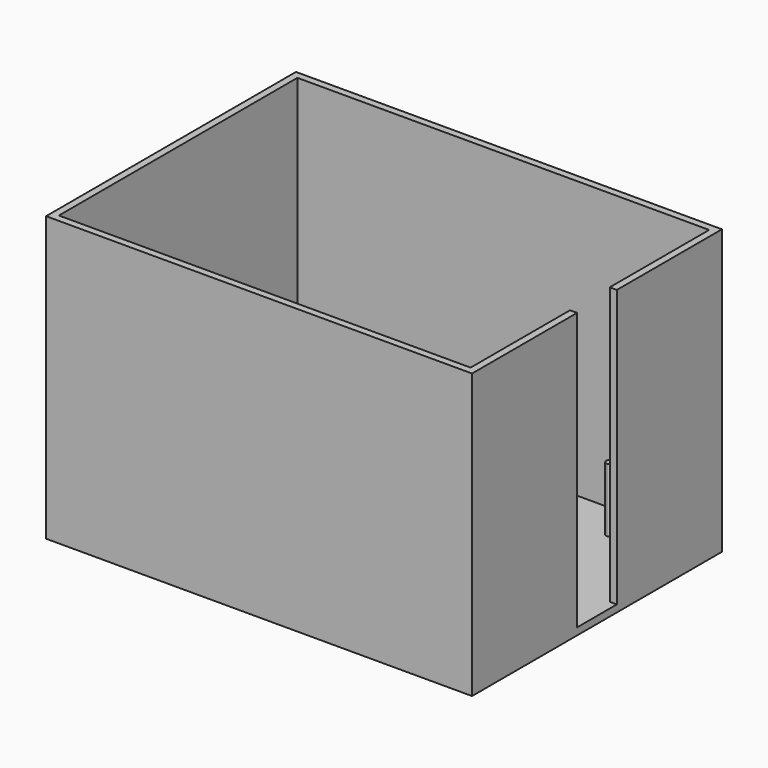
from build123d import *

# Parameters (mm, degrees)
F1_DEPTH = 40
F0_W     = 1
F0_H     = 7
F2_DEPTH = 1
F3_DEPTH = 10


with BuildPart() as f1:
    # F0 (on Top) → F1 (new body)
    with BuildSketch(Plane.XY):
        Polygon((10, -5), (-48, -5), (-48, 37), (10, 37), (10, 19.5), (11, 19.5), (11, 38), (-49, 38), (-49, -6), (11, -6), (11, 12.5), (10, 12.5), align=None)
    extrude(amount=F1_DEPTH)

    # F0 (on Top) → F2 (join)
    with BuildSketch(Plane.XY):
        Polygon((-48, 37), (-48, -5), (10, -5), (10, 12.5), (10, 19.5), (10, 37), align=None)
        with BuildLine():
            Line((-0.5, 0), (-42.5, 0))
            ThreePointArc((-42.5, 0), (-43.3535533906, -0.3535533906), (-43, 0.5))
            Line((-43, 0.5), (-43, 31.5))
            ThreePointArc((-43, 31.5), (-43.3535533906, 32.3535533906), (-42.5, 32))
            Line((-42.5, 32), (-0.5, 32))
            ThreePointArc((-0.5, 32), (0, 32.5), (0.5, 32))
            ThreePointArc((0.5, 32), (0.3535533906, 31.6464466094), (0, 31.5))
            Line((0, 31.5), (0, 0.5))
            ThreePointArc((0, 0.5), (0.3535533906, 0.3535533906), (0.5, 0))
            ThreePointArc((0.5, 0), (0, -0.5), (-0.5, 0))
        make_face(mode=Mode.SUBTRACT)
        with BuildLine():
            ThreePointArc((-43, 0.5), (-42.6464466094, 0.3535533906), (-42.5, 0))
            Line((-42.5, 0), (-0.5, 0))
            ThreePointArc((-0.5, 0), (-0.3535533906, 0.3535533906), (0, 0.5))
            Line((0, 0.5), (0, 31.5))
            ThreePointArc((0, 31.5), (-0.3535533906, 31.6464466094), (-0.5, 32))
            Line((-0.5, 32), (-42.5, 32))
            ThreePointArc((-42.5, 32), (-42.6464466094, 31.6464466094), (-43, 31.5))
            Line((-43, 31.5), (-43, 0.5))
        make_face()
        Polygon((10, -5), (-48, -5), (-48, 37), (10, 37), (10, 19.5), (11, 19.5), (11, 38), (-49, 38), (-49, -6), (11, -6), (11, 12.5), (10, 12.5), align=None)
        Polygon((10, -5), (-48, -5), (-48, 37), (10, 37), (10, 19.5), (11, 19.5), (11, 38), (-49, 38), (-49, -6), (11, -6), (11, 12.5), (10, 12.5), align=None)
        with Locations((10.5, 16)):
            Rectangle(F0_W, F0_H)
        with BuildLine():
            Line((-42.5, 0), (-43, 0))
            Line((-43, 0), (-43, 0.5))
            ThreePointArc((-43, 0.5), (-43.3535533906, -0.3535533906), (-42.5, 0))
        make_face()
        with BuildLine():
            Line((0, 0), (-0.5, 0))
            ThreePointArc((-0.5, 0), (0, -0.5), (0.5, 0))
            ThreePointArc((0.5, 0), (0.3535533906, 0.3535533906), (0, 0.5))
            Line((0, 0.5), (0, 0))
        make_face()
        with BuildLine():
            Line((0, 32), (0, 31.5))
            ThreePointArc((0, 31.5), (0.3535533906, 31.6464466094), (0.5, 32))
            ThreePointArc((0.5, 32), (0, 32.5), (-0.5, 32))
            Line((-0.5, 32), (0, 32))
        make_face()
        with BuildLine():
            ThreePointArc((-42.5, 32), (-43.3535533906, 32.3535533906), (-43, 31.5))
            Line((-43, 31.5), (-43, 32))
            Line((-43, 32), (-42.5, 32))
        make_face()
        with BuildLine():
            Line((-43, 0.5), (-43, 0))
            Line((-43, 0), (-42.5, 0))
            ThreePointArc((-42.5, 0), (-42.6464466094, 0.3535533906), (-43, 0.5))
        make_face()
        with BuildLine():
            ThreePointArc((0, 0.5), (-0.3535533906, 0.3535533906), (-0.5, 0))
            Line((-0.5, 0), (0, 0))
            Line((0, 0), (0, 0.5))
        make_face()
        with BuildLine():
            ThreePointArc((-0.5, 32), (-0.3535533906, 31.6464466094), (0, 31.5))
            Line((0, 31.5), (0, 32))
            Line((0, 32), (-0.5, 32))
        make_face()
        with BuildLine():
            Line((-43, 32), (-43, 31.5))
            ThreePointArc((-43, 31.5), (-42.6464466094, 31.6464466094), (-42.5, 32))
            Line((-42.5, 32), (-43, 32))
        make_face()
    extrude(amount=F2_DEPTH)

    # F0 (on Top) → F3 (join)
    with BuildSketch(Plane.XY):
        with BuildLine():
            ThreePointArc((-42.5, 32), (-43.3535533906, 32.3535533906), (-43, 31.5))
            Line((-43, 31.5), (-43, 32))
            Line((-43, 32), (-42.5, 32))
        make_face()
        with BuildLine():
            Line((-43, 32), (-43, 31.5))
            ThreePointArc((-43, 31.5), (-42.6464466094, 31.6464466094), (-42.5, 32))
            Line((-42.5, 32), (-43, 32))
        make_face()
        with BuildLine():
            ThreePointArc((-0.5, 32), (-0.3535533906, 31.6464466094), (0, 31.5))
            Line((0, 31.5), (0, 32))
            Line((0, 32), (-0.5, 32))
        make_face()
        with BuildLine():
            Line((0, 32), (0, 31.5))
            ThreePointArc((0, 31.5), (0.3535533906, 31.6464466094), (0.5, 32))
            ThreePointArc((0.5, 32), (0, 32.5), (-0.5, 32))
            Line((-0.5, 32), (0, 32))
        make_face()
        with BuildLine():
            Line((0, 0), (-0.5, 0))
            ThreePointArc((-0.5, 0), (0, -0.5), (0.5, 0))
            ThreePointArc((0.5, 0), (0.3535533906, 0.3535533906), (0, 0.5))
            Line((0, 0.5), (0, 0))
        make_face()
        with BuildLine():
            ThreePointArc((0, 0.5), (-0.3535533906, 0.3535533906), (-0.5, 0))
            Line((-0.5, 0), (0, 0))
            Line((0, 0), (0, 0.5))
        make_face()
        with BuildLine():
            Line((-43, 0.5), (-43, 0))
            Line((-43, 0), (-42.5, 0))
            ThreePointArc((-42.5, 0), (-42.6464466094, 0.3535533906), (-43, 0.5))
        make_face()
        with BuildLine():
            Line((-42.5, 0), (-43, 0))
            Line((-43, 0), (-43, 0.5))
            ThreePointArc((-43, 0.5), (-43.3535533906, -0.3535533906), (-42.5, 0))
        make_face()
    extrude(amount=F3_DEPTH)


solid = f1.part
